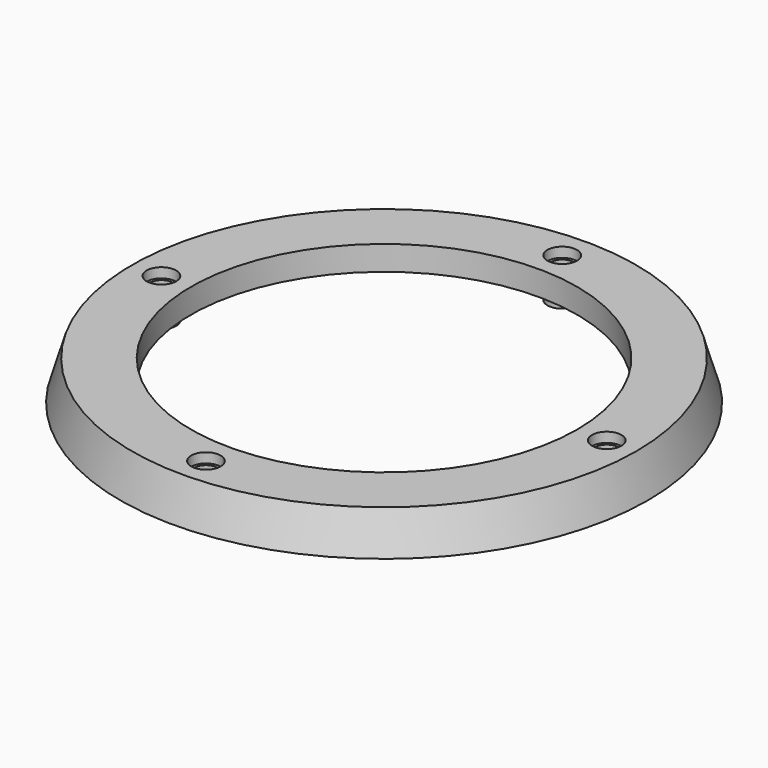
from build123d import *

# Parameters (mm, degrees)
SKETCH001_R              = 1.5
POCKET_DEPTH             = 1
POLARPATTERN_COUNT       = 4
SKETCH002_R              = 1.19
POCKET001_DEPTH          = 155.098074
POLARPATTERN001_COUNT    = 4
SKETCH003_R              = 1.5
PAD_DEPTH                = 2.5
POLARPATTERN002_COUNT    = 4
POLARPATTERN002_FACE38_R = 1.19
POCKET002_DEPTH          = 154.598074
POLARPATTERN003_COUNT    = 4


with BuildPart() as part:
    # Sketch → Revolution (revolve)
    with BuildSketch(Plane.XZ):
        Polygon((19.65, 1.5), (19.65, 4), (25.65, 4), (26.85, 0), (24.9, 0), (24.15, 2.5), (21.15, 2.5), (21.15, 1.5), align=None)
    revolve(axis=Axis((0, 0, 0), (0, 0, 1)))

    # Sketch001 (on Face2 of Revolution) → Pocket (cut)
    with BuildSketch(Plane(origin=(0, 0, 4), x_dir=(-1, 0, 0), z_dir=(0, 0, 1))):
        with Locations((0, 22.65)):
            Circle(SKETCH001_R)
    pocket = extrude(amount=-POCKET_DEPTH, mode=Mode.SUBTRACT)

    # PolarPattern: Pocket ×4 about axis
    polarpattern_axis = Axis((0, 0, 4), (0, 0, 1))
    for i in range(1, POLARPATTERN_COUNT):
        add(pocket.rotate(polarpattern_axis, i * 360 / POLARPATTERN_COUNT), mode=Mode.SUBTRACT)

    # Sketch002 (on Face14 of PolarPattern) → Pocket001 (cut, through all)
    with BuildSketch(Plane(origin=(0, 0, 3), x_dir=(-1, 0, 0), z_dir=(0, 0, 1))):
        with Locations((0, 22.65)):
            Circle(SKETCH002_R)
    pocket001 = extrude(amount=-POCKET001_DEPTH, mode=Mode.SUBTRACT)

    # PolarPattern001: Pocket001 ×4 about axis
    polarpattern001_axis = Axis((0, 0, 3), (0, 0, 1))
    for i in range(1, POLARPATTERN001_COUNT):
        add(pocket001.rotate(polarpattern001_axis, i * 360 / POLARPATTERN001_COUNT), mode=Mode.SUBTRACT)

    # Sketch003 (on Face10 of PolarPattern001) → Pad (join)
    with BuildSketch(Plane(origin=(0, 0, 2.5), x_dir=(1, 0, 0), z_dir=(0, 0, -1))):
        with Locations((0, 22.65)):
            Circle(SKETCH003_R)
    pad = extrude(amount=PAD_DEPTH)

    # PolarPattern002: Pad ×4 about axis
    polarpattern002_axis = Axis((0, 0, 2.5), (0, 0, -1))
    for i in range(1, POLARPATTERN002_COUNT):
        add(pad.rotate(polarpattern002_axis, i * 360 / POLARPATTERN002_COUNT))

    # PolarPattern002 Face38 → Pocket002 (cut, through all)
    with BuildSketch(Plane(origin=(22.65, 0, 2.5), x_dir=(0, 1, 0), z_dir=(0, 0, 1))):
        Circle(POLARPATTERN002_FACE38_R)
    pocket002 = extrude(amount=-POCKET002_DEPTH, mode=Mode.SUBTRACT)

    # PolarPattern003: Pocket002 ×4 about axis
    polarpattern003_axis = Axis((0, 0, 0), (0, 0, 1))
    for i in range(1, POLARPATTERN003_COUNT):
        add(pocket002.rotate(polarpattern003_axis, i * 360 / POLARPATTERN003_COUNT), mode=Mode.SUBTRACT)


solid = part.part
